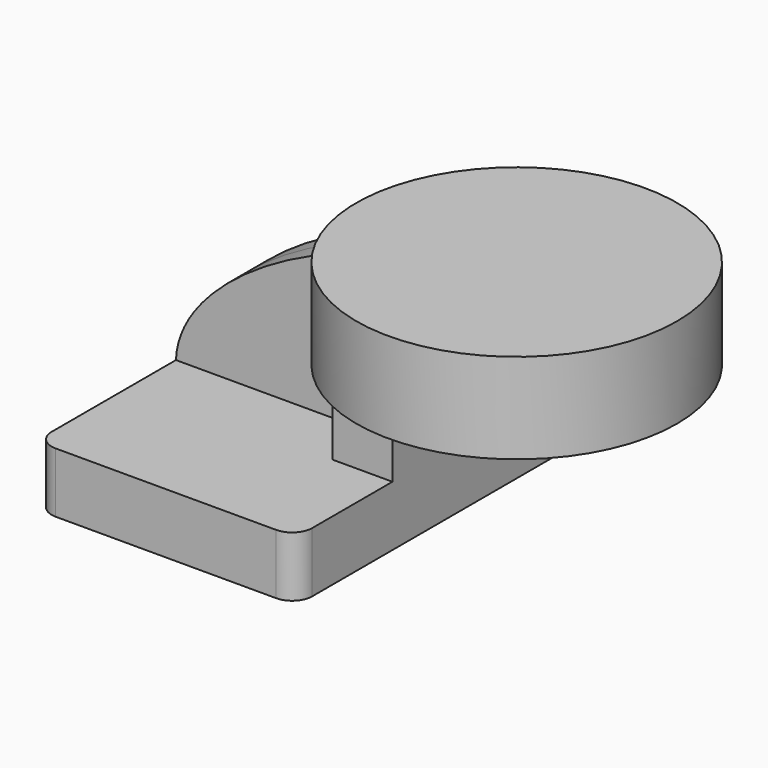
from build123d import *

# Parameters (mm, degrees)
F1_DEPTH = 63.5
F0_W     = 10.8645128564
F0_H     = 19.05
F2_DEPTH = 25.4
F3_DEPTH = 7.9375
F5_R     = 6.35


with BuildPart() as f1:
    # F0 (on Front) → F1 (new body, symmetric)
    with BuildSketch(Plane.XZ):
        Polygon((-41.275, -9.525), (41.275, -9.525), (41.275, 9.525), (22.225, 9.525), (-41.275, 9.525), align=None)
    extrude(amount=F1_DEPTH, both=True)

    # F0 (on Front) → F2 (join, symmetric)
    with BuildSketch(Plane.XZ):
        with BuildLine():
            Line((22.225, 9.525), (41.275, 9.525))
            Line((41.275, 9.525), (41.275, 28.8110316193))
            ThreePointArc((41.275, 28.8110316193), (43.5686828026, 37.0307304084), (49.7869304797, 42.8752))
            Line((49.7869304797, 42.8752), (60.325, 42.8752))
            Line((60.325, 42.8752), (60.325, 61.9252))
            Line((60.325, 61.9252), (46.0501136286, 61.9252))
            ThreePointArc((46.0501136286, 61.9252), (28.8002278976, 49.2082384561), (22.225, 28.8110316193))
            Line((22.225, 28.8110316193), (22.225, 9.525))
        make_face()
        with Locations((65.7572564282, 52.4002)):
            Rectangle(F0_W, F0_H)
    extrude(amount=F2_DEPTH, both=True)

    # F0 (on Front) → F3 (join, symmetric)
    with BuildSketch(Plane.XZ):
        with BuildLine():
            add(Edge.make_bspline(
                [(-41.275, 9.525), (-40.2269773185, 37.5649705529), (16.0009935498, 65.2335137129), (46.0501136286, 61.9252)],
                knots=[0, 0, 0, 0, 101.8403477522, 101.8403477522, 101.8403477522, 101.8403477522], degree=3))
            Line((-41.275, 9.525), (22.225, 9.525))
            Line((22.225, 9.525), (22.225, 28.8110316193))
            ThreePointArc((22.225, 28.8110316193), (28.8002278976, 49.2082384561), (46.0501136286, 61.9252))
        make_face()
    extrude(amount=F3_DEPTH, both=True)

    # F0 (on Front) → F4 (revolve)
    with BuildSketch(Plane.XZ):
        Polygon((60.325, 66.675), (60.325, 61.9252), (71.1895128564, 61.9252), (71.1895128564, 42.8752), (60.325, 42.8752), (60.325, 38.1), (111.125, 38.1), (111.125, 66.675), align=None)
    revolve(axis=Axis((60.325, 0, 52.3875), (0, 0, 1)))

    # F5
    f5_edges = [f1.edges().sort_by_distance(p)[0] for p in [
        (-41.275, -63.5, 0),
        (41.275, -63.5, 0),
        (41.275, 63.5, 0),
        (-41.275, 63.5, 0),
    ]]
    fillet(f5_edges, radius=F5_R)


solid = f1.part
